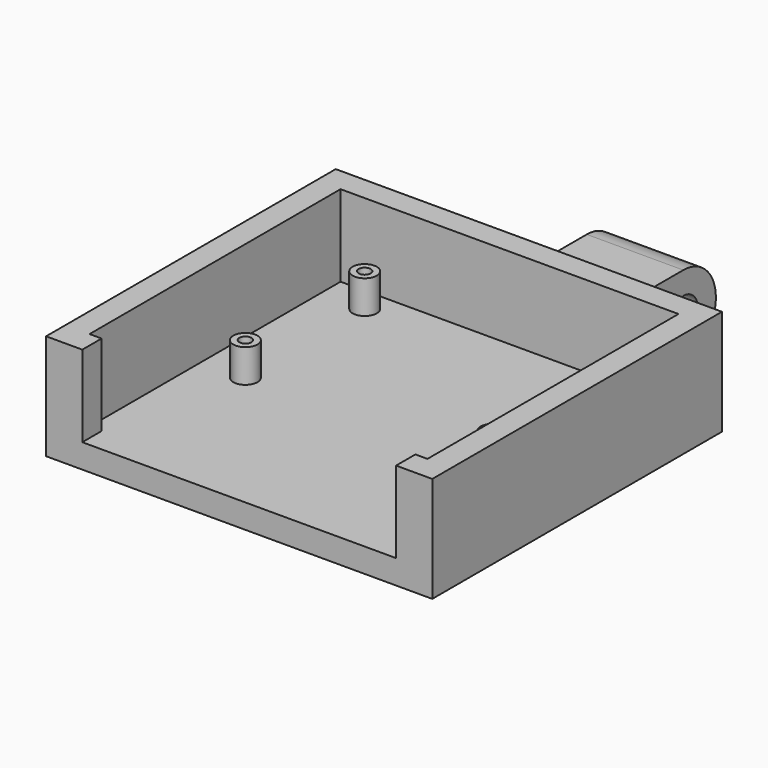
from build123d import *

# Parameters (mm, degrees)
SKETCH_W        = 32
SKETCH_H        = 30
PAD_DEPTH       = 8.75
SKETCH001_W     = 28
SKETCH001_H     = 26
POCKET_DEPTH    = 6.75
SKETCH002_R     = 1
SKETCH002_R_2   = 0.5
PAD001_DEPTH    = 2.75
SKETCH003_W     = 26
SKETCH003_H     = 6.75
POCKET001_DEPTH = 2
SKETCH004_W     = 8
SKETCH004_H     = 6.75
PAD002_DEPTH    = 6
SKETCH005_R     = 3.375
SKETCH005_R_2   = 1.5
PAD003_DEPTH    = 8
SKETCH006_R     = 1.5
POCKET002_DEPTH = 8


with BuildPart() as part:
    # Sketch → Pad (new body)
    with BuildSketch(Plane.XY):
        with Locations((16, 15)):
            Rectangle(SKETCH_W, SKETCH_H)
    extrude(amount=PAD_DEPTH)

    # Sketch001 (on Face6 of Pad) → Pocket (cut)
    with BuildSketch(Plane.XY.offset(8.75)):
        with Locations((16, 15)):
            Rectangle(SKETCH001_W, SKETCH001_H)
    extrude(amount=-POCKET_DEPTH, mode=Mode.SUBTRACT)

    # Sketch002 (on Face11 of Pocket) → Pad001 (join)
    with BuildSketch(Plane.XY.offset(2)):
        with Locations((5.6, 26)):
            Circle(SKETCH002_R)
        with Locations((5.6, 26)):
            Circle(SKETCH002_R_2, mode=Mode.SUBTRACT)
        with Locations((26.4, 26)):
            Circle(SKETCH002_R)
        with Locations((26.4, 26)):
            Circle(SKETCH002_R_2, mode=Mode.SUBTRACT)
        with Locations((26.05, 13.715)):
            Circle(SKETCH002_R)
        with Locations((26.05, 13.715)):
            Circle(SKETCH002_R_2, mode=Mode.SUBTRACT)
        with Locations((5.6, 13.645)):
            Circle(SKETCH002_R)
        with Locations((5.6, 13.645)):
            Circle(SKETCH002_R_2, mode=Mode.SUBTRACT)
    extrude(amount=PAD001_DEPTH)

    # Sketch003 (on Face1 of Pad001) → Pocket001 (cut)
    with BuildSketch(Plane.XZ):
        with Locations((16, 5.375)):
            Rectangle(SKETCH003_W, SKETCH003_H)
    extrude(amount=-POCKET001_DEPTH, mode=Mode.SUBTRACT)

    # Sketch004 (on Face9 of Pocket001) → Pad002 (join)
    with BuildSketch(Plane(origin=(0, 30, 0), x_dir=(-1, 0, 0), z_dir=(0, 1, 0))):
        with Locations((-20, 3.375)):
            Rectangle(SKETCH004_W, SKETCH004_H)
    extrude(amount=PAD002_DEPTH)

    # Sketch005 (on Face19 of Pad002) → Pad003 (join)
    with BuildSketch(Plane(origin=(16, 0, 0), x_dir=(0, -1, 0), z_dir=(-1, 0, 0))):
        with Locations((-36, 3.375)):
            Circle(SKETCH005_R)
        with Locations((-36, 3.375)):
            Circle(SKETCH005_R_2, mode=Mode.SUBTRACT)
    extrude(amount=-PAD003_DEPTH)

    # Sketch006 (on Face34 of Pad003) → Pocket002 (cut)
    with BuildSketch(Plane(origin=(16, 0, 0), x_dir=(0, -1, 0), z_dir=(-1, 0, 0))):
        with Locations((-35.974457, 3.342444)):
            Circle(SKETCH006_R)
    extrude(amount=-POCKET002_DEPTH, mode=Mode.SUBTRACT)


solid = part.part
